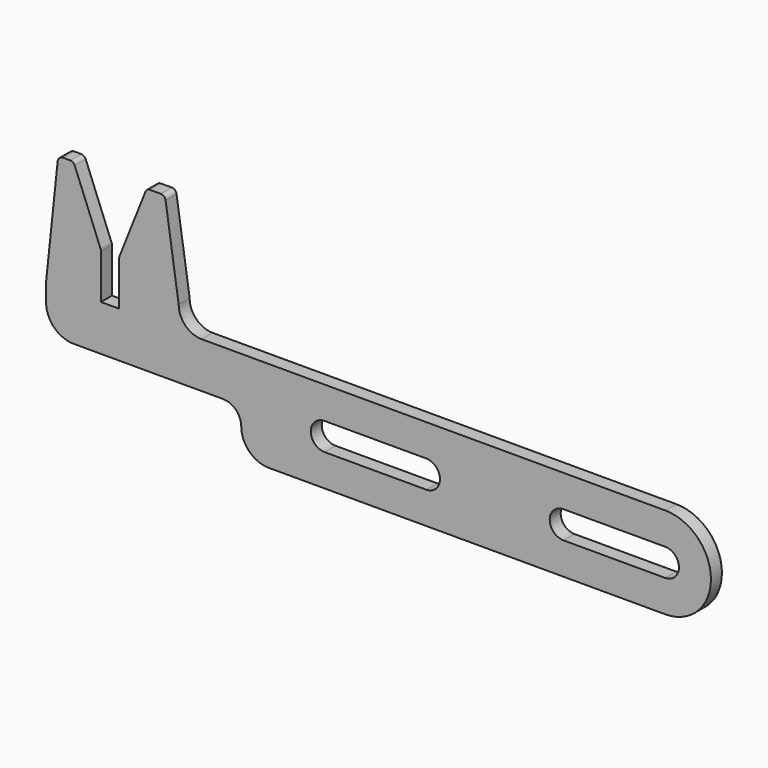
from build123d import *

# Parameters (mm, degrees)
F1_DEPTH = 3


with BuildPart() as f1:
    # F0 (on Front) → F1 (new body)
    with BuildSketch(Plane.XZ):
        with BuildLine():
            Line((66.959496, 6.363932), (-34.437499, 6.363932))
            ThreePointArc((-34.437499, 6.363932), (-37.973033, 7.828398), (-39.437499, 11.363932))
            Line((-39.437499, 11.363932), (-42.304049, 30.548125))
            ThreePointArc((-42.304049, 30.548125), (-42.656431, 31.187154), (-43.340519, 31.44123))
            Line((-43.340519, 31.44123), (-45.726631, 31.44123))
            ThreePointArc((-45.726631, 31.44123), (-46.314925, 31.260529), (-46.70034, 30.78074))
            Line((-46.70034, 30.78074), (-52.363231, 16.550558))
            ThreePointArc((-52.363231, 16.550558), (-52.418764, 16.360341), (-52.437499, 16.163071))
            Line((-52.437499, 16.163071), (-52.437499, 6.363932))
            Line((-52.437499, 6.363932), (-56.437499, 6.363932))
            Line((-56.437499, 6.363932), (-56.437499, 16.163071))
            ThreePointArc((-56.437499, 16.163071), (-56.456233, 16.360341), (-56.511767, 16.550558))
            Line((-56.511767, 16.550558), (-62.174657, 30.78074))
            ThreePointArc((-62.174657, 30.78074), (-62.560073, 31.260529), (-63.148366, 31.44123))
            Line((-63.148366, 31.44123), (-64.700432, 31.44123))
            ThreePointArc((-64.700432, 31.44123), (-65.512445, 31.129609), (-65.907509, 30.354754))
            Line((-65.907509, 30.354754), (-68.437499, 6.363932))
            Line((-68.437499, 6.363932), (-68.437499, 2.363932))
            ThreePointArc((-68.437499, 2.363932), (-66.680139, -1.878709), (-62.437499, -3.636068))
            Line((-62.437499, -3.636068), (-29.757047, -3.636068))
            ThreePointArc((-29.757047, -3.636068), (-26.92862, -4.807641), (-25.757047, -7.636068))
            ThreePointArc((-25.757047, -7.636068), (-23.999688, -11.878709), (-19.757047, -13.636068))
            Line((-19.757047, -13.636068), (66.959496, -13.636068))
            ThreePointArc((66.959496, -13.636068), (76.959496, -3.636068), (66.959496, 6.363932))
        make_face()
        with BuildLine():
            Line((14.701995, -6.636068), (-7.555505, -6.636068))
            ThreePointArc((-7.555505, -6.636068), (-10.555505, -3.636068), (-7.555505, -0.636068))
            Line((-7.555505, -0.636068), (14.701995, -0.636068))
            ThreePointArc((14.701995, -0.636068), (17.701995, -3.636068), (14.701995, -6.636068))
        make_face(mode=Mode.SUBTRACT)
        with BuildLine():
            ThreePointArc((66.959496, -0.636068), (69.959496, -3.636068), (66.959496, -6.636068))
            Line((66.959496, -6.636068), (44.701995, -6.636068))
            ThreePointArc((44.701995, -6.636068), (41.701995, -3.636068), (44.701995, -0.636068))
            Line((44.701995, -0.636068), (66.959496, -0.636068))
        make_face(mode=Mode.SUBTRACT)
    extrude(amount=F1_DEPTH)


solid = f1.part
